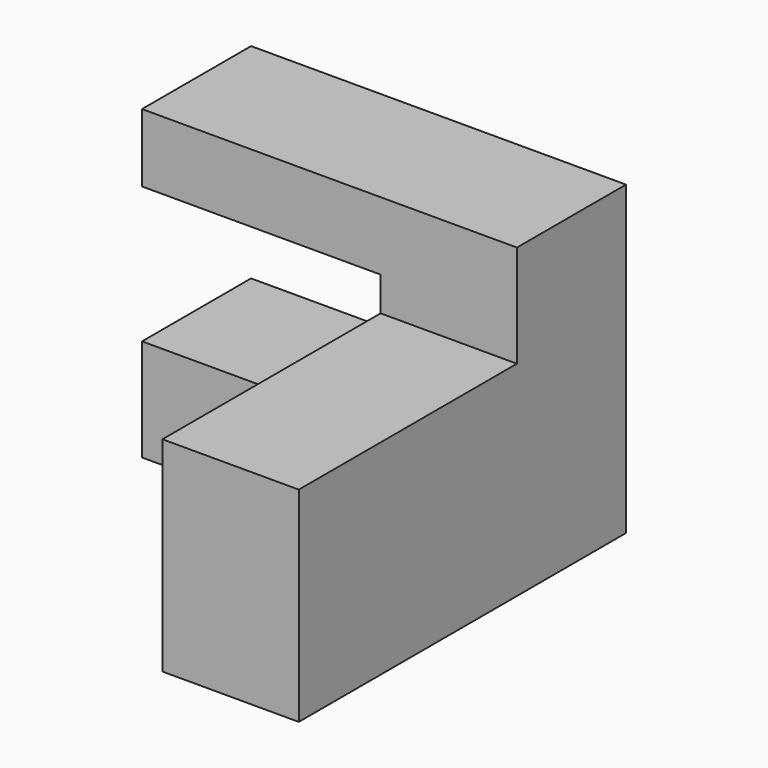
from build123d import *

# Parameters (mm, degrees)
F0_W     = 35
F0_H     = 15
F1_DEPTH = 60
F2_DEPTH = 40
F3_DEPTH = 40


with BuildPart() as f1:
    # F0 (on Front) → F1 (new body)
    with BuildSketch(Plane.XZ):
        Polygon((-20, 0), (0, 0), (0, 30), (-20, 30), (-20, 15), align=None)
        Polygon((-20, 30), (0, 30), (0, 45), (-55, 45), (-55, 35), (-20, 35), align=None)
        with Locations((-37.5, 7.5)):
            Rectangle(F0_W, F0_H)
    extrude(amount=-F1_DEPTH)

    # F0 (on Front) → F2 (cut)
    with BuildSketch(Plane.XZ):
        Polygon((-20, 30), (0, 30), (0, 45), (-55, 45), (-55, 35), (-20, 35), align=None)
    extrude(amount=-F2_DEPTH, mode=Mode.SUBTRACT)

    # F0 (on Front) → F3 (cut)
    with BuildSketch(Plane.XZ):
        with Locations((-37.5, 7.5)):
            Rectangle(F0_W, F0_H)
    extrude(amount=-F3_DEPTH, mode=Mode.SUBTRACT)


solid = f1.part
